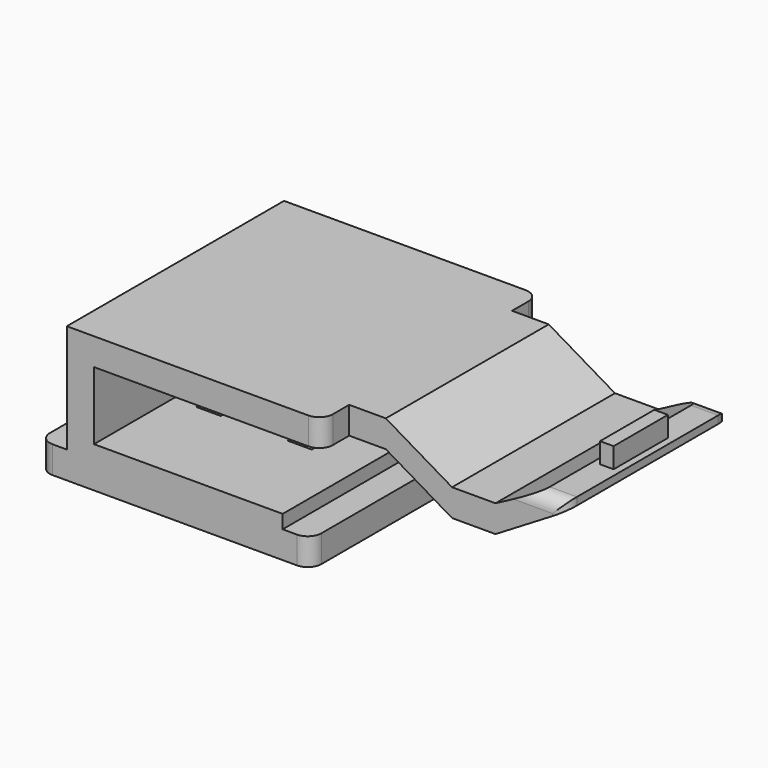
from build123d import *

# Parameters (mm, degrees)
F0_W      = 20
F0_H      = 20
F0_W_2    = 12
F0_H_2    = 15.4
F1_DEPTH  = 2
F2_W      = 15.9
F2_H      = 20
F3_DEPTH  = 1
F4_W      = 2
F4_H      = 20
F5_DEPTH  = 7
F7_DEPTH  = 3.001
F9_DEPTH  = 2.3
F11_DEPTH = 4
F12_W     = 20
F12_H     = 2
F13_DEPTH = 16.8
F14_W     = 15
F14_H     = 2
F15_DEPTH = 2.7
F16_W     = 15
F16_H     = 2.88
F16_H_2   = 2
F17_DEPTH = 4.88
F19_DEPTH = 17.501
F20_W     = 15
F20_H     = 3.7
F21_DEPTH = 8.4
F23_DEPTH = 17.501
F24_W     = 1
F24_H     = 5
F25_DEPTH = 1.5
F26_R     = 1
F27_R     = 1


with BuildPart() as f1:
    # F0 (on Top) → F1 (new body)
    with BuildSketch(Plane.XY):
        Rectangle(F0_W, F0_H)
        Rectangle(F0_W_2, F0_H_2, mode=Mode.SUBTRACT)
    extrude(amount=F1_DEPTH)

    # F2 (on face) → F3 (join)
    with BuildSketch(Plane.XY.offset(2)):
        Rectangle(F2_W, F2_H)
    extrude(amount=F3_DEPTH)

    # F4 (on face) → F5 (join)
    with BuildSketch(Plane.XY.offset(3)):
        with Locations((-6.95, 0)):
            Rectangle(F4_W, F4_H)
    extrude(amount=F5_DEPTH)

    # F6 (on face) → F7 (cut, through all)
    with BuildSketch(Plane.XY.offset(3)):
        Polygon((0, 7.5), (-4.25, 7.5), (-4.25, -2.7), (-2.45, -2.7), (-2.45, 6.5), (0, 6.5), (2.45, 6.5), (2.45, -2.7), (4.25, -2.7), (4.25, 7.5), align=None)
    extrude(amount=-F7_DEPTH, mode=Mode.SUBTRACT)

    # F8 (on face) → F9 (join)
    with BuildSketch(Plane(origin=(0, 0, 2), x_dir=(1, 0, 0), z_dir=(0, 0, -1))):
        Polygon((1.5, -3.7), (0, -3.7), (-1.5, -3.7), (-1.5, -6.5), (1.5, -6.5), align=None)
    extrude(amount=F9_DEPTH)

    # F10 (on face) → F11 (cut)
    with BuildSketch(Plane.YZ.offset(1.5)):
        Polygon((5.847163, -0.3), (3.7, 2), (3.7, -0.3), align=None)
    extrude(amount=-F11_DEPTH, mode=Mode.SUBTRACT)

    # F12 (on face) → F13 (join)
    with BuildSketch(Plane.YZ.offset(-5.95)):
        with Locations((0, 9)):
            Rectangle(F12_W, F12_H)
    extrude(amount=F13_DEPTH)

    # F14 (on face) → F15 (join)
    with BuildSketch(Plane.YZ.offset(10.85)):
        with Locations((0, 9)):
            Rectangle(F14_W, F14_H)
    extrude(amount=F15_DEPTH)

    # F16 (on face) → F17 (join)
    with BuildSketch(Plane.YZ.offset(13.55)):
        with Locations((0, 6.56)):
            Rectangle(F16_W, F16_H)
        with Locations((0, 9)):
            Rectangle(F16_W, F16_H_2)
    extrude(amount=F17_DEPTH)

    # F18 (on face) → F19 (cut, through all)
    with BuildSketch(Plane.XZ.offset(7.5)):
        Polygon((18.43, 10), (13.55, 10), (18.43, 7.12), align=None)
        Polygon((18.43, 5.12), (13.55, 8), (13.55, 5.12), align=None)
    extrude(amount=-F19_DEPTH, mode=Mode.SUBTRACT)

    # F20 (on face) → F21 (join)
    with BuildSketch(Plane.YZ.offset(18.43)):
        with Locations((0, 6.97)):
            Rectangle(F20_W, F20_H)
        with Locations((0, 6.97)):
            Rectangle(F20_W, F20_H)
    extrude(amount=F21_DEPTH)

    # F22 (on face) → F23 (cut, through all)
    with BuildSketch(Plane.XZ.offset(7.5)):
        Polygon((21.63, 7.12), (24.83, 8.82), (18.43, 8.82), (18.43, 7.12), align=None)
        Polygon((26.83, 5.12), (26.83, 8.256902), (21.63, 5.12), align=None)
    extrude(amount=-F23_DEPTH, mode=Mode.SUBTRACT)

    # F24 (on face) → F25 (join)
    with BuildSketch(Plane.XY.offset(8.82)):
        with Locations((25.83, 0)):
            Rectangle(F24_W, F24_H)
    extrude(amount=F25_DEPTH)

    # F26
    f26_edges = [f1.edges().sort_by_distance(p)[0] for p in [
        (25.83, -7.5, 8.82),
        (25.83, 7.5, 8.82),
        (26.83, -7.5, 8.538451),
        (26.83, 7.5, 8.538451),
    ]]
    fillet(f26_edges, radius=F26_R)

    # F27
    f27_edges = [f1.edges().sort_by_distance(p)[0] for p in [
        (10, -10, 1),
        (-10, -10, 1),
        (-10, 10, 1),
        (10, 10, 1),
        (10.85, 10, 9),
        (10.85, -10, 9),
    ]]
    fillet(f27_edges, radius=F27_R)


solid = f1.part
